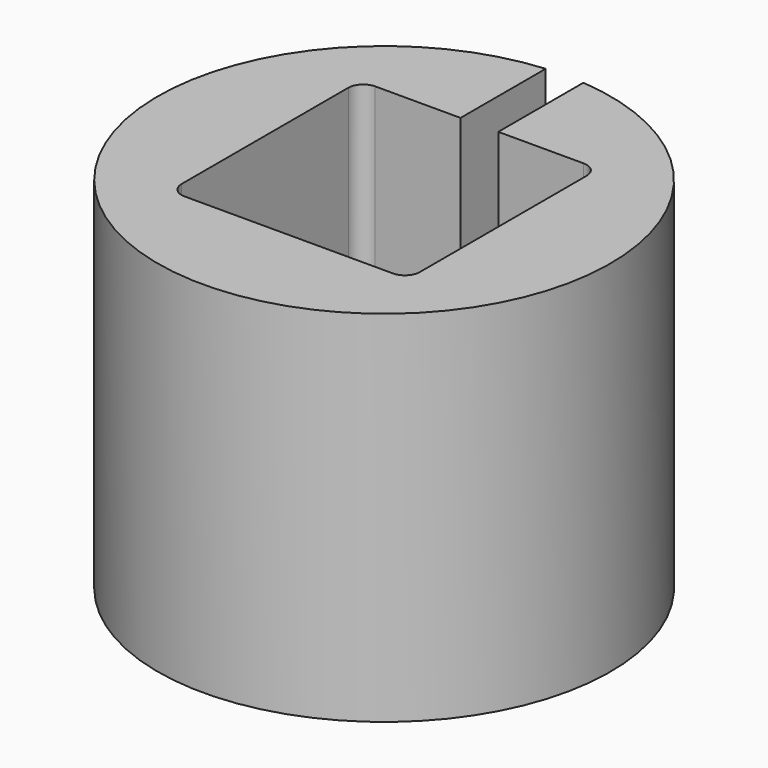
from build123d import *

# Parameters (mm, degrees)
F1_DEPTH = 19.05
F2_R     = 0.79375


with BuildPart() as f1:
    # F0 (on Top) → F1 (new body)
    with BuildSketch(Plane.XY):
        with BuildLine():
            Line((-1, 6.316894), (-1, 11.958261))
            ThreePointArc((-1, 11.958261), (0, -12), (1, 11.958261))
            Line((1, 11.958261), (1, 6.316894))
            Line((1, 6.316894), (6.316894, 6.316894))
            Line((6.316894, 6.316894), (6.316894, -6.316894))
            Line((6.316894, -6.316894), (-6.316894, -6.316894))
            Line((-6.316894, -6.316894), (-6.316894, 6.316894))
            Line((-6.316894, 6.316894), (-1, 6.316894))
        make_face()
    extrude(amount=F1_DEPTH)

    # F2
    f2_edges = [f1.edges().sort_by_distance(p)[0] for p in [
        (-6.316894, 6.316894, 9.525),
        (6.316894, 6.316894, 9.525),
        (6.316894, -6.316894, 9.525),
        (-6.316894, -6.316894, 9.525),
    ]]
    fillet(f2_edges, radius=F2_R)


solid = f1.part
